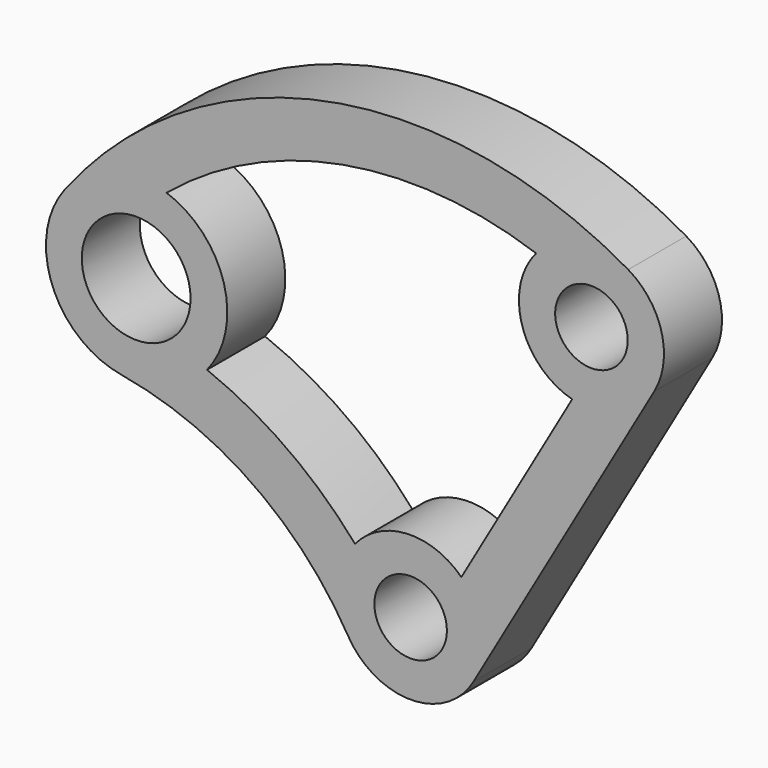
from build123d import *

# Parameters (mm, degrees)
F0_R     = 254
F0_R_2   = 381
F1_DEPTH = 508


with BuildPart() as f1:
    # F0 (on Front) → F1 (new body)
    with BuildSketch(Plane.XZ):
        with BuildLine():
            ThreePointArc((1706.742988, 1948.537264), (1757.505109, 2331.674352), (1524, 2639.645431))
            ThreePointArc((1524, 2639.645431), (-599.637522, 2988.434179), (-2424.338094, 1847.400554))
            ThreePointArc((-2424.338094, 1847.400554), (-2509.953916, 1229.470198), (-2025.475657, 836.47044))
            ThreePointArc((-2025.475657, 836.47044), (-1110.623183, 464.975519), (-437.786265, -257.695919))
            ThreePointArc((-437.786265, -257.695919), (2.557567, -507.993562), (440.35882, -253.274771))
            Line((440.35882, -253.274771), (1706.742988, 1948.537264))
        make_face()
        Circle(F0_R, mode=Mode.SUBTRACT)
        with Locations((-1922.570594, 1465.043468)):
            Circle(F0_R_2, mode=Mode.SUBTRACT)
        with BuildLine():
            ThreePointArc((-1709.952806, 2062.035482), (-476.937108, 2635.993157), (879.019726, 2530.465026))
            ThreePointArc((879.019726, 2530.465026), (780.918975, 2052.187347), (1131.241631, 1712.117747))
            Line((1131.241631, 1712.117747), (355.321947, 363.056902))
            ThreePointArc((355.321947, 363.056902), (-25.19545, 507.374802), (-389.54283, 326.068065))
            ThreePointArc((-389.54283, 326.068065), (-863.325848, 756.933942), (-1426.16174, 1062.436006))
            ThreePointArc((-1426.16174, 1062.436006), (-1308.408826, 1635.951179), (-1709.952806, 2062.035482))
        make_face(mode=Mode.SUBTRACT)
        with Locations((1266.384168, 2201.812034)):
            Circle(F0_R, mode=Mode.SUBTRACT)
    extrude(amount=F1_DEPTH)


solid = f1.part
